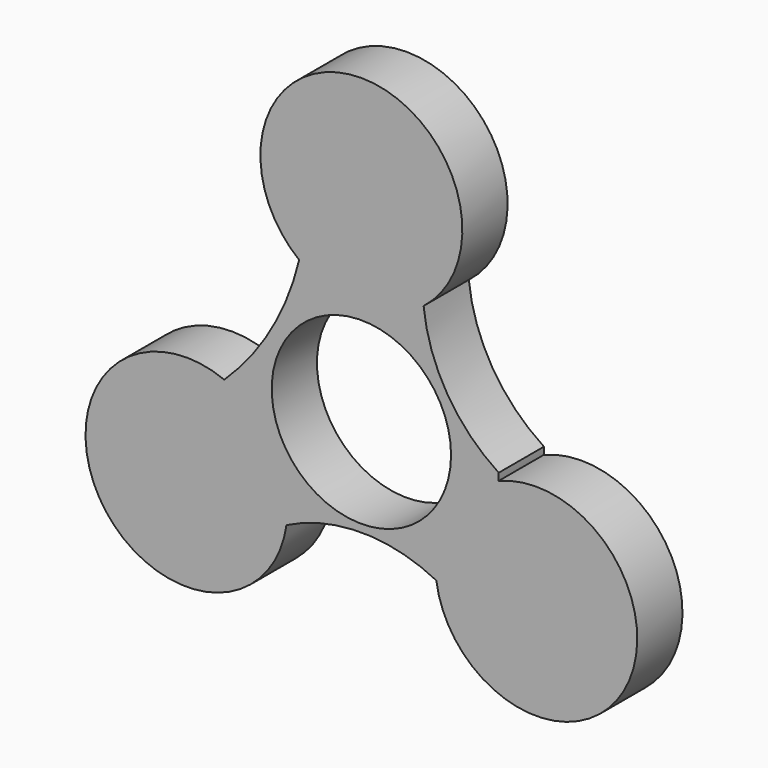
from build123d import *

# Parameters (mm, degrees)
F0_R     = 11.1
F1_DEPTH = 7


with BuildPart() as f1:
    # F0 (on Front) → F1 (new body)
    with BuildSketch(Plane.XZ):
        with BuildLine():
            ThreePointArc((6.2338166768, 15.8158), (0, 13.9), (-6.2338166768, 15.8158))
            ThreePointArc((-6.2338166768, 15.8158), (-6.9759049464, 15.5027981403), (-7.7023356847, 15.155))
            ThreePointArc((-7.7023356847, 15.155), (-11.1819106583, 6.4554763423), (-16.9757337999, -0.9079988747))
            ThreePointArc((-16.9757337999, -0.9079988747), (-16.9137232859, -1.71054512), (-16.8137929196, -2.5092563954))
            ThreePointArc((-16.8137929196, -2.5092563954), (-12.2458770397, -6.6041942087), (-10.5506350946, -12.5))
            ThreePointArc((-10.5506350946, -12.5), (-10.557972807, -12.9035385636), (-10.5799762428, -13.3065436046))
            ThreePointArc((-10.5799762428, -13.3065436046), (-9.9377854009, -13.7927669931), (-9.2732836372, -14.2480247959))
            ThreePointArc((-9.2732836372, -14.2480247959), (0.0003631141, -12.0362492821), (9.2741432999, -14.2474652501))
            ThreePointArc((9.2741432999, -14.2474652501), (9.9382015017, -13.79246718), (10.5799762428, -13.3065436046))
            ThreePointArc((10.5799762428, -13.3065436046), (12.0377531126, -6.95), (16.8137929196, -2.5092563954))
            ThreePointArc((16.8137929196, -2.5092563954), (16.9137310645, -1.7104682038), (16.9757420575, -0.9078444785))
            ThreePointArc((16.9757420575, -0.9078444785), (16.9939344323, -0.4540842556), (17, 0))
            ThreePointArc((17, 0), (10.6273382236, 6.5199223601), (7.7023356847, 15.155))
            ThreePointArc((7.7023356847, 15.155), (6.9759049464, 15.5027981403), (6.2338166768, 15.8158))
        make_face()
        Circle(F0_R, mode=Mode.SUBTRACT)
        with BuildLine():
            ThreePointArc((6.2338166768, 15.8158), (9.8082966185, 19.8031435036), (11.1, 25))
            ThreePointArc((11.1, 25), (-5.1968564964, 34.8082966185), (-6.2338166768, 15.8158))
            ThreePointArc((-6.2338166768, 15.8158), (0, 13.9), (6.2338166768, 15.8158))
        make_face()
        with BuildLine():
            ThreePointArc((-6.2338166768, 15.8158), (-5.1968564964, 34.8082966185), (11.1, 25))
            ThreePointArc((11.1, 25), (9.8082966185, 19.8031435036), (6.2338166768, 15.8158))
            ThreePointArc((6.2338166768, 15.8158), (6.9759049464, 15.5027981403), (7.7023356847, 15.155))
            ThreePointArc((7.7023356847, 15.155), (0, 37.5), (-7.7023356847, 15.155))
            ThreePointArc((-7.7023356847, 15.155), (-6.9759049464, 15.5027981403), (-6.2338166768, 15.8158))
        make_face()
        with BuildLine():
            ThreePointArc((-16.8137929196, -2.5092563954), (-16.9137232859, -1.71054512), (-16.9757337999, -0.9079988747))
            ThreePointArc((-16.9757337999, -0.9079988747), (-32.4756988834, -18.751271821), (-9.2732836372, -14.2480247959))
            ThreePointArc((-9.2732836372, -14.2480247959), (-9.9377854009, -13.7927669931), (-10.5799762428, -13.3065436046))
            ThreePointArc((-10.5799762428, -13.3065436046), (-31.2635170766, -18.05), (-16.8137929196, -2.5092563954))
        make_face()
        with BuildLine():
            ThreePointArc((9.2741432999, -14.2474652501), (32.4767837776, -18.7503949231), (16.9757420575, -0.9078444785))
            ThreePointArc((16.9757420575, -0.9078444785), (16.9137310645, -1.7104682038), (16.8137929196, -2.5092563954))
            ThreePointArc((16.8137929196, -2.5092563954), (27.5464408859, -3.0952419451), (32.7506350946, -12.5))
            ThreePointArc((32.7506350946, -12.5), (22.0541736582, -23.5926622876), (10.5799762428, -13.3065436046))
            ThreePointArc((10.5799762428, -13.3065436046), (9.9382015017, -13.79246718), (9.2741432999, -14.2474652501))
        make_face()
        with BuildLine():
            ThreePointArc((-10.5506350946, -12.5), (-12.2458770397, -6.6041942087), (-16.8137929196, -2.5092563954))
            ThreePointArc((-16.8137929196, -2.5092563954), (-31.2635170766, -18.05), (-10.5799762428, -13.3065436046))
            ThreePointArc((-10.5799762428, -13.3065436046), (-10.557972807, -12.9035385636), (-10.5506350946, -12.5))
        make_face()
        with BuildLine():
            ThreePointArc((32.7506350946, -12.5), (27.5464408859, -3.0952419451), (16.8137929196, -2.5092563954))
            ThreePointArc((16.8137929196, -2.5092563954), (12.0377531126, -6.95), (10.5799762428, -13.3065436046))
            ThreePointArc((10.5799762428, -13.3065436046), (22.0541736582, -23.5926622876), (32.7506350946, -12.5))
        make_face()
    extrude(amount=F1_DEPTH)


solid = f1.part
